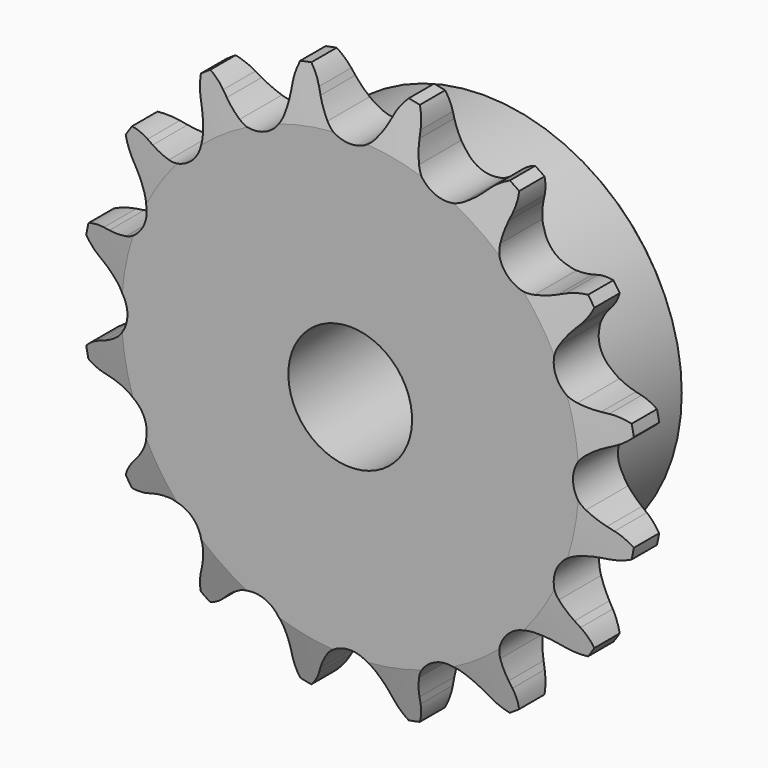
from build123d import *

# Parameters (mm, degrees)
F0_W     = 7.2136
F0_H     = 17.4625
F0_H_2   = 10.287
F0_W_2   = 15.0114
F2_R     = 1.5875
F3_SIZE  = 0.79375
F4_SIZE2 = 6.35
F4_SIZE  = 1.5748
F6_DEPTH = 22.226


with BuildPart() as f1:
    # F0 (on Right) → F1 (revolve)
    with BuildSketch(Plane.YZ):
        with Locations((3.6068, 16.66875)):
            Rectangle(F0_W, F0_H)
        with Locations((3.6068, 30.5435)):
            Rectangle(F0_W, F0_H_2)
        with Locations((14.7193, 16.66875)):
            Rectangle(F0_W_2, F0_H)
    revolve(axis=Axis((0, 11.1125, 0), (0, 1, 0)))

    # F2
    f2_edges = [f1.edges().sort_by_distance(p)[0] for p in [
        (0, 7.2136, -25.4),
    ]]
    fillet(f2_edges, radius=F2_R)

    # F3
    f3_edges = [f1.edges().sort_by_distance(p)[0] for p in [
        (0, 22.225, -25.4),
    ]]
    chamfer(f3_edges, length=F3_SIZE)

    # F4
    f4_edges = [f1.edges().sort_by_distance(p)[0] for p in [
        (0, 7.2136, -35.687),
        (0, 0, -35.687),
    ]]
    f4_side = f1.faces().sort_by_distance((0, 3.6068, -35.687))[0]
    chamfer(f4_edges, length=F4_SIZE, length2=F4_SIZE2, reference=f4_side)

    # F5 (on face) → F6 (intersect, through all)
    with BuildSketch(Plane.XZ):
        with BuildLine():
            ThreePointArc((-3.0902142758, 30.0699408338), (-3.8441959519, 31.1417538349), (-4.4568878106, 32.3001493474))
            Line((-4.4568878106, 32.3001493474), (-4.8164154778, 33.0982711732))
            ThreePointArc((-4.8164154778, 33.0982711732), (-5.7824590494, 34.6345413147), (-7.1308367855, 35.8491373836))
            ThreePointArc((-7.1308367855, 35.8491373836), (-7.9117695854, 34.2109951151), (-8.2163723379, 32.4219777052))
            Line((-8.2163723379, 32.4219777052), (-8.2431045912, 31.5470240041))
            ThreePointArc((-8.2431045912, 31.5470240041), (-8.3658592885, 30.2423390761), (-8.6522824488, 28.963576686))
            ThreePointArc((-8.6522824488, 28.963576686), (-10.9400391594, 26.4115909116), (-14.3622538898, 26.5984290744))
            ThreePointArc((-14.3622538898, 26.5984290744), (-15.4690072063, 27.300118873), (-16.4783594451, 28.135869754))
            Line((-16.4783594451, 28.135869754), (-17.115947698, 28.7356528917))
            ThreePointArc((-17.115947698, 28.7356528917), (-18.596360712, 29.7852925621), (-20.3069050971, 30.3914311902))
            ThreePointArc((-20.3069050971, 30.3914311902), (-20.4015030212, 28.5791350327), (-19.9982919468, 26.8097320375))
            Line((-19.9982919468, 26.8097320375), (-19.688159043, 25.9911502307))
            ThreePointArc((-19.688159043, 25.9911502307), (-19.3022882889, 24.7388023405), (-19.0775476037, 23.4477705432))
            ThreePointArc((-19.0775476037, 23.4477705432), (-20.2145565285, 20.2145565285), (-23.4477705432, 19.0775476037))
            ThreePointArc((-23.4477705432, 19.0775476037), (-24.7388023405, 19.3022882889), (-25.9911502307, 19.688159043))
            Line((-25.9911502307, 19.688159043), (-26.8097320375, 19.9982919468))
            ThreePointArc((-26.8097320375, 19.9982919468), (-28.5791350327, 20.4015030212), (-30.3914311902, 20.3069050971))
            ThreePointArc((-30.3914311902, 20.3069050971), (-29.7852925621, 18.596360712), (-28.7356528917, 17.115947698))
            Line((-28.7356528917, 17.115947698), (-28.135869754, 16.4783594451))
            ThreePointArc((-28.135869754, 16.4783594451), (-27.300118873, 15.4690072063), (-26.5984290744, 14.3622538898))
            ThreePointArc((-26.5984290744, 14.3622538898), (-26.4115909116, 10.9400391594), (-28.963576686, 8.6522824488))
            ThreePointArc((-28.963576686, 8.6522824488), (-30.2423390761, 8.3658592885), (-31.5470240041, 8.2431045912))
            Line((-31.5470240041, 8.2431045912), (-32.4219777052, 8.2163723379))
            ThreePointArc((-32.4219777052, 8.2163723379), (-34.2109951151, 7.9117695854), (-35.8491373836, 7.1308367855))
            ThreePointArc((-35.8491373836, 7.1308367855), (-34.6345413147, 5.7824590494), (-33.0982711732, 4.8164154778))
            Line((-33.0982711732, 4.8164154778), (-32.3001493474, 4.4568878106))
            ThreePointArc((-32.3001493474, 4.4568878106), (-31.1417538349, 3.8441959519), (-30.0699408338, 3.0902142758))
            ThreePointArc((-30.0699408338, 3.0902142758), (-28.5877, 0), (-30.0699408338, -3.0902142758))
            ThreePointArc((-30.0699408338, -3.0902142758), (-31.1417538349, -3.8441959519), (-32.3001493474, -4.4568878106))
            Line((-32.3001493474, -4.4568878106), (-33.0982711732, -4.8164154778))
            ThreePointArc((-33.0982711732, -4.8164154778), (-34.6345413147, -5.7824590494), (-35.8491373836, -7.1308367855))
            ThreePointArc((-35.8491373836, -7.1308367855), (-34.2109951151, -7.9117695854), (-32.4219777052, -8.2163723379))
            Line((-32.4219777052, -8.2163723379), (-31.5470240041, -8.2431045912))
            ThreePointArc((-31.5470240041, -8.2431045912), (-30.2423390761, -8.3658592885), (-28.963576686, -8.6522824488))
            ThreePointArc((-28.963576686, -8.6522824488), (-26.4115909116, -10.9400391594), (-26.5984290744, -14.3622538898))
            ThreePointArc((-26.5984290744, -14.3622538898), (-27.300118873, -15.4690072063), (-28.135869754, -16.4783594451))
            Line((-28.135869754, -16.4783594451), (-28.7356528917, -17.115947698))
            ThreePointArc((-28.7356528917, -17.115947698), (-29.7852925621, -18.596360712), (-30.3914311902, -20.3069050971))
            ThreePointArc((-30.3914311902, -20.3069050971), (-28.5791350327, -20.4015030212), (-26.8097320375, -19.9982919468))
            Line((-26.8097320375, -19.9982919468), (-25.9911502307, -19.688159043))
            ThreePointArc((-25.9911502307, -19.688159043), (-24.7388023405, -19.3022882889), (-23.4477705432, -19.0775476037))
            ThreePointArc((-23.4477705432, -19.0775476037), (-20.2145565285, -20.2145565285), (-19.0775476037, -23.4477705432))
            ThreePointArc((-19.0775476037, -23.4477705432), (-19.3022882889, -24.7388023405), (-19.688159043, -25.9911502307))
            Line((-19.688159043, -25.9911502307), (-19.9982919468, -26.8097320375))
            ThreePointArc((-19.9982919468, -26.8097320375), (-20.4015030212, -28.5791350327), (-20.3069050971, -30.3914311902))
            ThreePointArc((-20.3069050971, -30.3914311902), (-18.596360712, -29.7852925621), (-17.115947698, -28.7356528917))
            Line((-17.115947698, -28.7356528917), (-16.4783594451, -28.135869754))
            ThreePointArc((-16.4783594451, -28.135869754), (-15.4690072063, -27.300118873), (-14.3622538898, -26.5984290744))
            ThreePointArc((-14.3622538898, -26.5984290744), (-10.9400391594, -26.4115909116), (-8.6522824488, -28.963576686))
            ThreePointArc((-8.6522824488, -28.963576686), (-8.3658592885, -30.2423390761), (-8.2431045912, -31.5470240041))
            Line((-8.2431045912, -31.5470240041), (-8.2163723379, -32.4219777052))
            ThreePointArc((-8.2163723379, -32.4219777052), (-7.9117695854, -34.2109951151), (-7.1308367855, -35.8491373836))
            ThreePointArc((-7.1308367855, -35.8491373836), (-5.7824590494, -34.6345413147), (-4.8164154778, -33.0982711732))
            Line((-4.8164154778, -33.0982711732), (-4.4568878106, -32.3001493474))
            ThreePointArc((-4.4568878106, -32.3001493474), (-3.8441959519, -31.1417538349), (-3.0902142758, -30.0699408338))
            ThreePointArc((-3.0902142758, -30.0699408338), (0, -28.5877), (3.0902142758, -30.0699408338))
            ThreePointArc((3.0902142758, -30.0699408338), (3.8441959519, -31.1417538349), (4.4568878106, -32.3001493474))
            Line((4.4568878106, -32.3001493474), (4.8164154778, -33.0982711732))
            ThreePointArc((4.8164154778, -33.0982711732), (5.7824590494, -34.6345413147), (7.1308367855, -35.8491373836))
            ThreePointArc((7.1308367855, -35.8491373836), (7.9117695854, -34.2109951151), (8.2163723379, -32.4219777052))
            Line((8.2163723379, -32.4219777052), (8.2431045912, -31.5470240041))
            ThreePointArc((8.2431045912, -31.5470240041), (8.3658592885, -30.2423390761), (8.6522824488, -28.963576686))
            ThreePointArc((8.6522824488, -28.963576686), (10.9400391594, -26.4115909116), (14.3622538898, -26.5984290744))
            ThreePointArc((14.3622538898, -26.5984290744), (15.4690072063, -27.300118873), (16.4783594451, -28.135869754))
            Line((16.4783594451, -28.135869754), (17.115947698, -28.7356528917))
            ThreePointArc((17.115947698, -28.7356528917), (18.596360712, -29.7852925621), (20.3069050971, -30.3914311902))
            ThreePointArc((20.3069050971, -30.3914311902), (20.4015030212, -28.5791350327), (19.9982919468, -26.8097320375))
            Line((19.9982919468, -26.8097320375), (19.688159043, -25.9911502307))
            ThreePointArc((19.688159043, -25.9911502307), (19.3022882889, -24.7388023405), (19.0775476037, -23.4477705432))
            ThreePointArc((19.0775476037, -23.4477705432), (20.2145565285, -20.2145565285), (23.4477705432, -19.0775476037))
            ThreePointArc((23.4477705432, -19.0775476037), (24.7388023405, -19.3022882889), (25.9911502307, -19.688159043))
            Line((25.9911502307, -19.688159043), (26.8097320375, -19.9982919468))
            ThreePointArc((26.8097320375, -19.9982919468), (28.5791350327, -20.4015030212), (30.3914311902, -20.3069050971))
            ThreePointArc((30.3914311902, -20.3069050971), (29.7852925621, -18.596360712), (28.7356528917, -17.115947698))
            Line((28.7356528917, -17.115947698), (28.135869754, -16.4783594451))
            ThreePointArc((28.135869754, -16.4783594451), (27.300118873, -15.4690072063), (26.5984290744, -14.3622538898))
            ThreePointArc((26.5984290744, -14.3622538898), (26.4115909116, -10.9400391594), (28.963576686, -8.6522824488))
            ThreePointArc((28.963576686, -8.6522824488), (30.2423390761, -8.3658592885), (31.5470240041, -8.2431045912))
            Line((31.5470240041, -8.2431045912), (32.4219777052, -8.2163723379))
            ThreePointArc((32.4219777052, -8.2163723379), (34.2109951151, -7.9117695854), (35.8491373836, -7.1308367855))
            ThreePointArc((35.8491373836, -7.1308367855), (34.6345413147, -5.7824590494), (33.0982711732, -4.8164154778))
            Line((33.0982711732, -4.8164154778), (32.3001493474, -4.4568878106))
            ThreePointArc((32.3001493474, -4.4568878106), (31.1417538349, -3.8441959519), (30.0699408338, -3.0902142758))
            ThreePointArc((30.0699408338, -3.0902142758), (28.5877, 0), (30.0699408338, 3.0902142758))
            ThreePointArc((30.0699408338, 3.0902142758), (31.1417538349, 3.8441959519), (32.3001493474, 4.4568878106))
            Line((32.3001493474, 4.4568878106), (33.0982711732, 4.8164154778))
            ThreePointArc((33.0982711732, 4.8164154778), (34.6345413147, 5.7824590494), (35.8491373836, 7.1308367855))
            ThreePointArc((35.8491373836, 7.1308367855), (34.2109951151, 7.9117695854), (32.4219777052, 8.2163723379))
            Line((32.4219777052, 8.2163723379), (31.5470240041, 8.2431045912))
            ThreePointArc((31.5470240041, 8.2431045912), (30.2423390761, 8.3658592885), (28.963576686, 8.6522824488))
            ThreePointArc((28.963576686, 8.6522824488), (26.4115909116, 10.9400391594), (26.5984290744, 14.3622538898))
            ThreePointArc((26.5984290744, 14.3622538898), (27.300118873, 15.4690072063), (28.135869754, 16.4783594451))
            Line((28.135869754, 16.4783594451), (28.7356528917, 17.115947698))
            ThreePointArc((28.7356528917, 17.115947698), (29.7852925621, 18.596360712), (30.3914311902, 20.3069050971))
            ThreePointArc((30.3914311902, 20.3069050971), (28.5791350327, 20.4015030212), (26.8097320375, 19.9982919468))
            Line((26.8097320375, 19.9982919468), (25.9911502307, 19.688159043))
            ThreePointArc((25.9911502307, 19.688159043), (24.7388023405, 19.3022882889), (23.4477705432, 19.0775476037))
            ThreePointArc((23.4477705432, 19.0775476037), (20.2145565285, 20.2145565285), (19.0775476037, 23.4477705432))
            ThreePointArc((19.0775476037, 23.4477705432), (19.3022882889, 24.7388023405), (19.688159043, 25.9911502307))
            Line((19.688159043, 25.9911502307), (19.9982919468, 26.8097320375))
            ThreePointArc((19.9982919468, 26.8097320375), (20.4015030212, 28.5791350327), (20.3069050971, 30.3914311902))
            ThreePointArc((20.3069050971, 30.3914311902), (18.596360712, 29.7852925621), (17.115947698, 28.7356528917))
            Line((17.115947698, 28.7356528917), (16.4783594451, 28.135869754))
            ThreePointArc((16.4783594451, 28.135869754), (15.4690072063, 27.300118873), (14.3622538898, 26.5984290744))
            ThreePointArc((14.3622538898, 26.5984290744), (10.9400391594, 26.4115909116), (8.6522824488, 28.963576686))
            ThreePointArc((8.6522824488, 28.963576686), (8.3658592885, 30.2423390761), (8.2431045912, 31.5470240041))
            Line((8.2431045912, 31.5470240041), (8.2163723379, 32.4219777052))
            ThreePointArc((8.2163723379, 32.4219777052), (7.9117695854, 34.2109951151), (7.1308367855, 35.8491373836))
            ThreePointArc((7.1308367855, 35.8491373836), (5.7824590494, 34.6345413147), (4.8164154778, 33.0982711732))
            Line((4.8164154778, 33.0982711732), (4.4568878106, 32.3001493474))
            ThreePointArc((4.4568878106, 32.3001493474), (3.8441959519, 31.1417538349), (3.0902142758, 30.0699408338))
            ThreePointArc((3.0902142758, 30.0699408338), (0, 28.5877), (-3.0902142758, 30.0699408338))
        make_face()
    extrude(amount=-F6_DEPTH, mode=Mode.INTERSECT)


solid = f1.part
